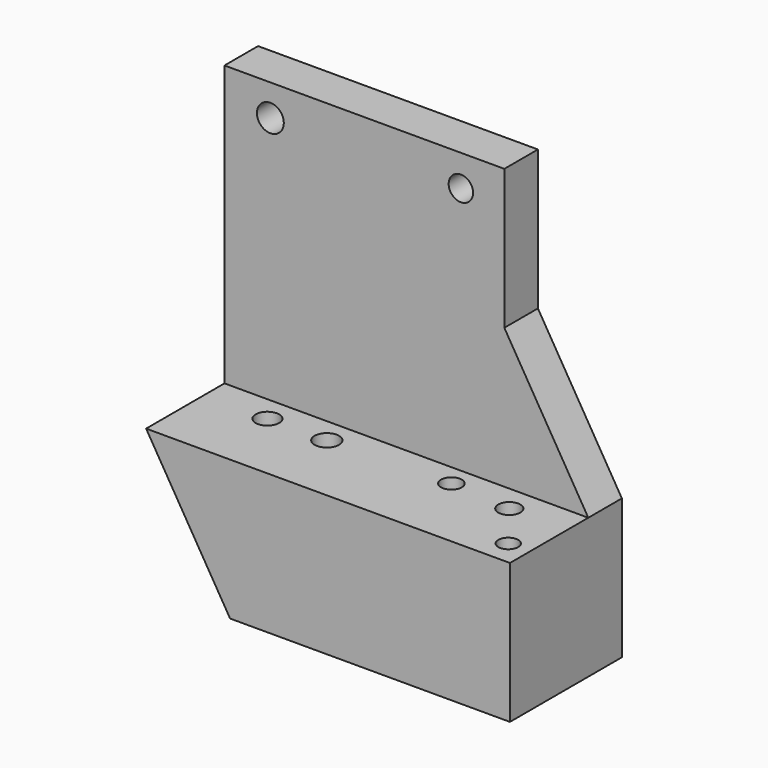
from build123d import *

# Parameters (mm, degrees)
F0_R     = 4.7966354506
F0_R_2   = 4.3722617323
F1_DEPTH = 15
F2_DEPTH = 50
F3_R     = 3.9330231178
F3_R_2   = 4.374414862
F3_R_3   = 4.2015516797
F3_R_4   = 3.7245553563
F3_R_5   = 3.5273482247
F4_DEPTH = 69
F3_R_6   = 6.4374509429
F3_R_7   = 5.9942154244
F5_DEPTH = 23.7


with BuildPart() as f1:
    # F0 (on Front) → F1 (new body)
    with BuildSketch(Plane.XZ):
        Polygon((-130, 50), (-100, 50), (-30, 50), (-30, 100), (-30, 150), (-130, 150), align=None)
        with Locations((-113.601192832, 138.8020068407)):
            Circle(F0_R, mode=Mode.SUBTRACT)
        with Locations((-45.5297119915, 138.8020068407)):
            Circle(F0_R_2, mode=Mode.SUBTRACT)
        Polygon((-30, 50), (0, 50), (-30, 100), align=None)
    extrude(amount=F1_DEPTH)

    # F0 (on Front) → F2 (join)
    with BuildSketch(Plane.XZ):
        Polygon((-130, 50), (-100, 0), (-100, 50), align=None)
        Polygon((-100, 0), (0, 0), (0, 50), (-30, 50), (-100, 50), align=None)
    extrude(amount=F2_DEPTH)

    # F3 (on Top) → F4 (cut)
    with BuildSketch(Plane.XY):
        with Locations((-20.6890981644, -24.4208239019)):
            Circle(F3_R)
        with Locations((-86.1961916089, -24.0469053388)):
            Circle(F3_R_2)
        with Locations((-107.3154211044, -24.1862814873)):
            Circle(F3_R_3)
        with Locations((-42.7642799914, -22.6896554232)):
            Circle(F3_R_4)
        with Locations((-7.7202138491, -41.0906225443)):
            Circle(F3_R_5)
    extrude(amount=F4_DEPTH, mode=Mode.SUBTRACT)

    # F3 (on Top) → F5 (cut)
    with BuildSketch(Plane.XY):
        with Locations((-107.3154211044, -24.1862814873)):
            Circle(F3_R_6)
        with Locations((-107.3154211044, -24.1862814873)):
            Circle(F3_R_3, mode=Mode.SUBTRACT)
        with Locations((-42.7642799914, -22.6896554232)):
            Circle(F3_R_7)
        with Locations((-42.7642799914, -22.6896554232)):
            Circle(F3_R_4, mode=Mode.SUBTRACT)
    extrude(amount=F5_DEPTH, mode=Mode.SUBTRACT)


solid = f1.part
